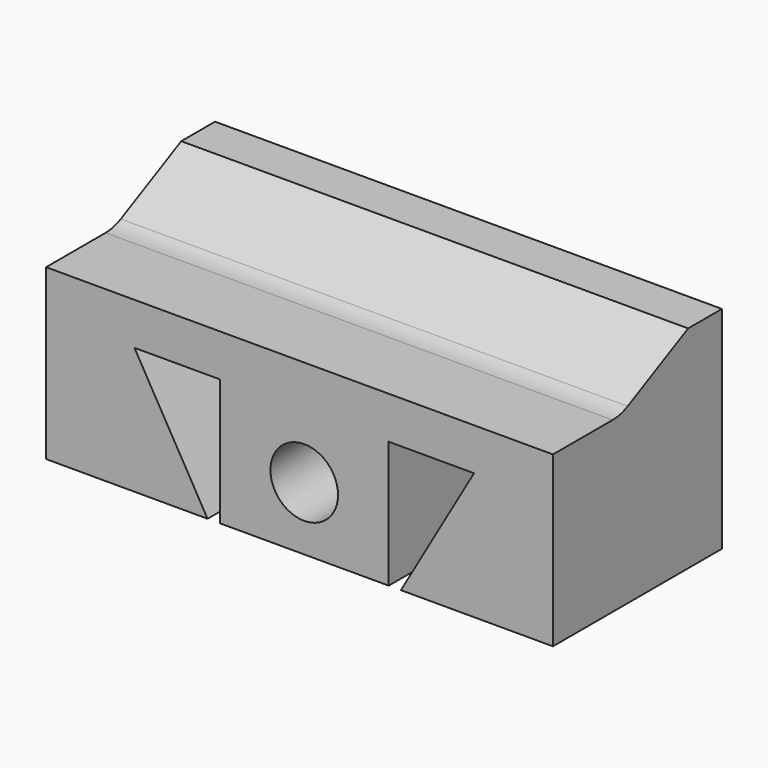
from build123d import *

# Parameters (mm, degrees)
F1_DEPTH = 25
F3_DEPTH = 60.001
F4_R     = 5
F5_W     = 13
F5_H     = 6
F6_DEPTH = 15
F7_R     = 4
F8_DEPTH = 25.001


with BuildPart() as f1:
    # F0 (on Front) → F1 (new body)
    with BuildSketch(Plane.XZ):
        Polygon((29.442134, 17.5), (-30.557866, 17.5), (-30.557866, -7.5), (-20.1, -7.5), (-20.1, 7.5), (-10, 7.5), (-10, -7.5), (10, -7.5), (10, 7.5), (20.1, 7.5), (11.439746, -7.5), (29.442134, -7.5), align=None)
        Polygon((-20.1, 7.5), (-20.1, -7.5), (-11.439746, -7.5), align=None)
    extrude(amount=F1_DEPTH)

    # F2 (on face) → F3 (cut, through all)
    with BuildSketch(Plane(origin=(-30.557866, 0, 0), x_dir=(0, -1, 0), z_dir=(-1, 0, 0))):
        Polygon((15, 12.5), (25, 12.5), (25, 17.5), (5, 17.5), align=None)
    extrude(amount=-F3_DEPTH, mode=Mode.SUBTRACT)

    # F4
    f4_edges = [f1.edges().sort_by_distance(p)[0] for p in [
        (-0.557866, -15, 12.5),
    ]]
    fillet(f4_edges, radius=F4_R)

    # F5 (on face) → F6 (cut)
    with BuildSketch(Plane(origin=(0, 0, -7.5), x_dir=(1, 0, 0), z_dir=(0, 0, -1))):
        with Locations((0, 12.5)):
            Rectangle(F5_W, F5_H)
    extrude(amount=-F6_DEPTH, mode=Mode.SUBTRACT)

    # F7 (on face) → F8 (cut, through all)
    with BuildSketch(Plane.XZ.offset(25)):
        Circle(F7_R)
    extrude(amount=-F8_DEPTH, mode=Mode.SUBTRACT)


solid = f1.part
